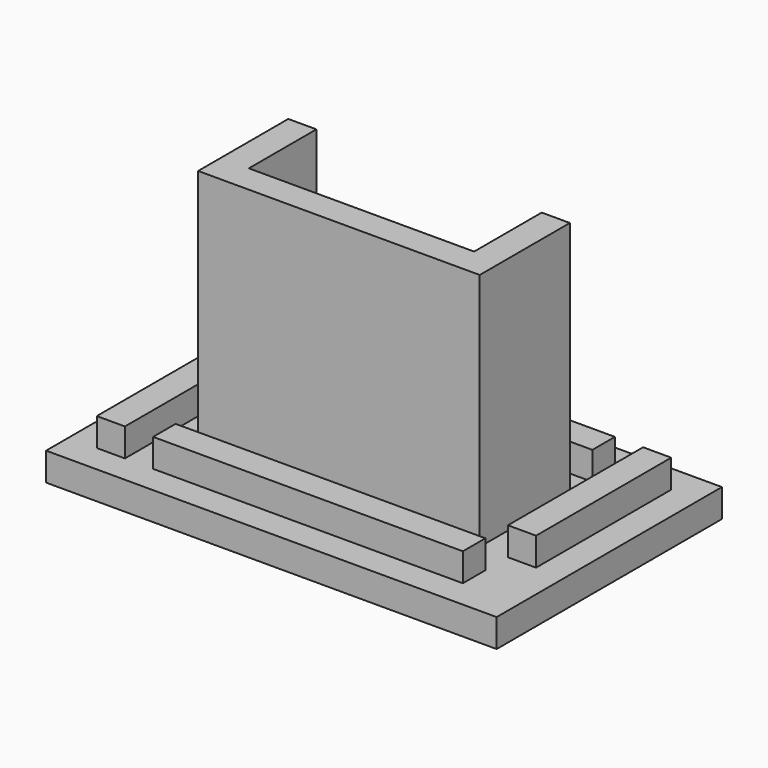
from build123d import *

# Parameters (mm, degrees)
F1_W     = 32
F1_H     = 20
F2_DEPTH = 2
F3_W     = 22
F3_H     = 2
F3_W_2   = 2
F3_H_2   = 12
F4_DEPTH = 2
F5_W     = 2
F5_H     = 6
F6_DEPTH = 17


with BuildPart() as f2:
    # F1 (on Top) → F2 (new body)
    with BuildSketch(Plane.XY):
        Rectangle(F1_W, F1_H)
    extrude(amount=F2_DEPTH)

    # F3 (on face) → F4 (join)
    with BuildSketch(Plane.XY.offset(2)):
        with Locations((-1, 7)):
            Rectangle(F3_W, F3_H)
        with Locations((13, 2)):
            Rectangle(F3_W_2, F3_H_2)
        with Locations((1, -7)):
            Rectangle(F3_W, F3_H)
        with Locations((-13, -2)):
            Rectangle(F3_W_2, F3_H_2)
    extrude(amount=F4_DEPTH)

    # F5 (on face) → F6 (join)
    with BuildSketch(Plane.XY.offset(2)):
        with Locations((-9, 1)):
            Rectangle(F5_W, F5_H)
        Polygon((-10, -2), (-10, -4), (10, -4), (10, -2), (8, -2), (-8, -2), align=None)
        with Locations((9, 1)):
            Rectangle(F5_W, F5_H)
    extrude(amount=F6_DEPTH)


solid = f2.part
